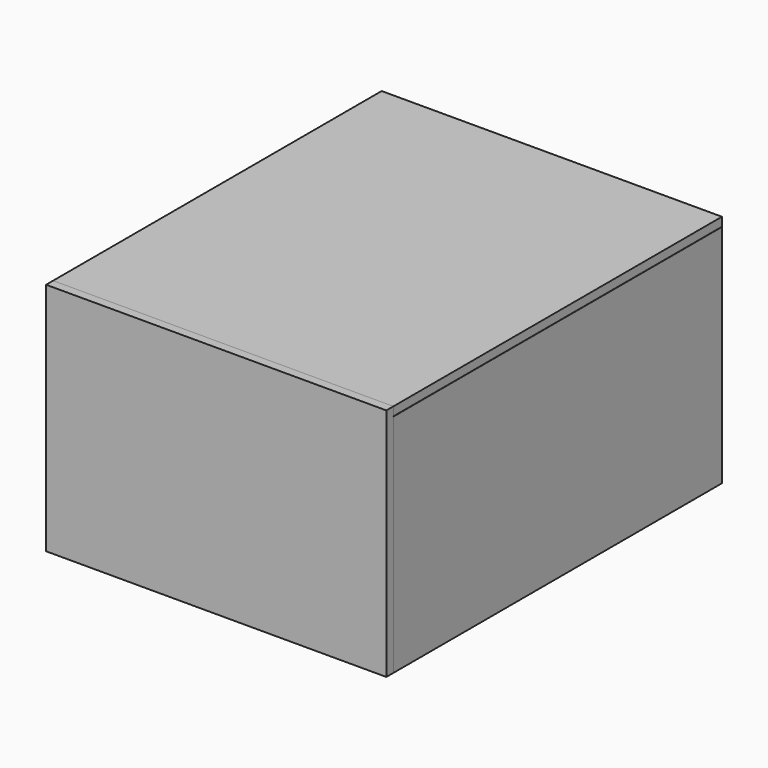
from build123d import *

# Parameters (mm, degrees)
F0_W     = 736.6
F0_H     = 889
F1_DEPTH = 19.05
F2_W     = 736.6
F2_H     = 508
F3_DEPTH = 19.05
F4_W     = 19.05
F4_H     = 488.538212
F5_DEPTH = 889


with BuildPart() as f1:
    # F0 (on Top) → F1 (new body)
    with BuildSketch(Plane.XY):
        with Locations((368.3, 444.5)):
            Rectangle(F0_W, F0_H)
    extrude(amount=-F1_DEPTH)


with BuildPart() as f3:
    # F2 (on face) → F3 (new body)
    with BuildSketch(Plane.XZ):
        with Locations((368.3, -254)):
            Rectangle(F2_W, F2_H)
    extrude(amount=F3_DEPTH)


with BuildPart() as f5:
    # F4 (on face) → F5 (new body)
    with BuildSketch(Plane(origin=(0, 0, 0), x_dir=(-1, 0, 0), z_dir=(0, 1, 0))):
        with Locations((-9.525, -263.730894)):
            Rectangle(F4_W, F4_H)
        with Locations((-727.075, -263.730894)):
            Rectangle(F4_W, F4_H)
    extrude(amount=F5_DEPTH)


solid = Compound([f1.part, f3.part, f5.part])
